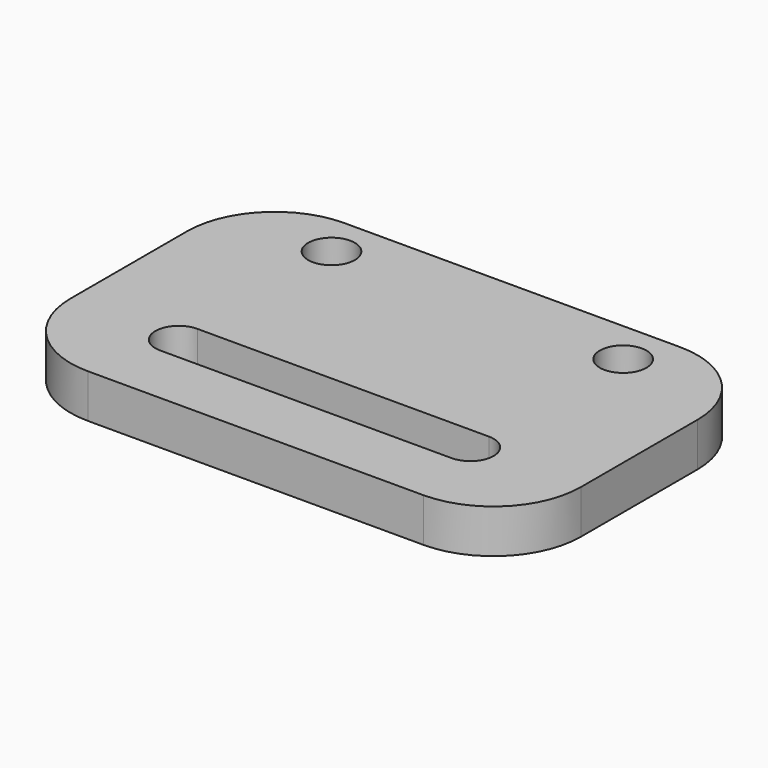
from build123d import *

# Parameters (mm, degrees)
F0_W     = 35
F0_H     = 22
F0_R     = 1.6
F1_DEPTH = 3
F2_R     = 6


with BuildPart() as f1:
    # F0 (on Top) → F1 (new body)
    with BuildSketch(Plane.XY):
        with Locations((0, 1.530737)):
            Rectangle(F0_W, F0_H)
        with BuildLine():
            ThreePointArc((-10, -5.169263), (-11.6, -3.569263), (-10, -1.969263))
            Line((-10, -1.969263), (10, -1.969263))
            ThreePointArc((10, -1.969263), (11.6, -3.569263), (10, -5.169263))
            Line((10, -5.169263), (-10, -5.169263))
        make_face(mode=Mode.SUBTRACT)
        with Locations((-10, 9.530737)):
            Circle(F0_R, mode=Mode.SUBTRACT)
        with Locations((10, 9.530737)):
            Circle(F0_R, mode=Mode.SUBTRACT)
    extrude(amount=F1_DEPTH)

    # F2
    f2_edges = [f1.edges().sort_by_distance(p)[0] for p in [
        (-17.5, -9.469263, 1.5),
        (-17.5, 12.530737, 1.5),
        (17.5, 12.530737, 1.5),
        (17.5, -9.469263, 1.5),
    ]]
    fillet(f2_edges, radius=F2_R)


solid = f1.part
